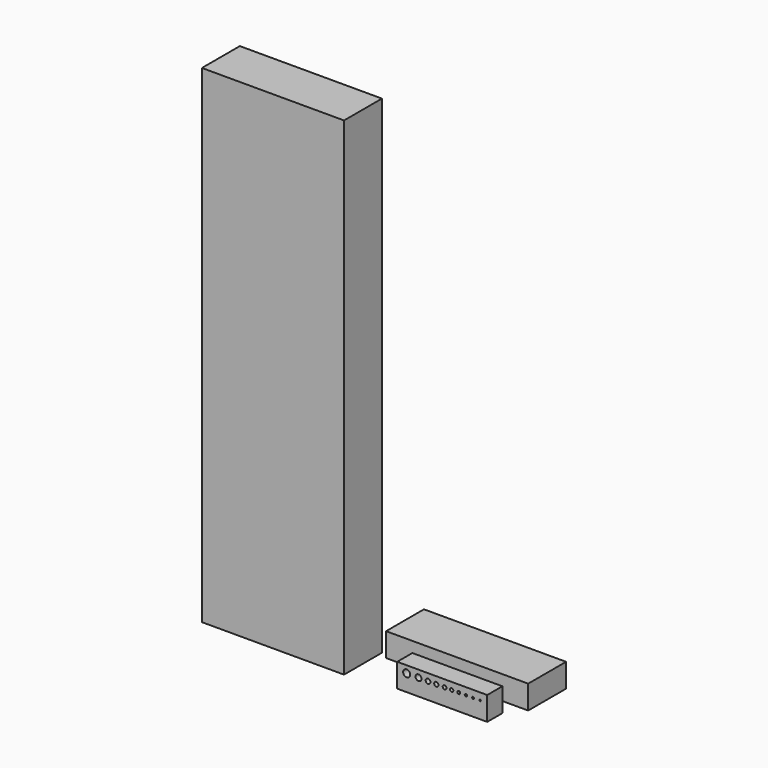
from build123d import *

# Parameters (mm, degrees)
F0_W     = 19
F0_H     = 5
F0_R     = 0.75
F0_R_2   = 0.625
F0_R_3   = 0.5
F0_R_4   = 0.45
F0_R_5   = 0.4
F0_R_6   = 0.35
F0_R_7   = 0.3
F0_R_8   = 0.25
F0_R_9   = 0.2
F0_R_10  = 0.15
F1_DEPTH = 4
F2_W     = 30
F2_H     = 10
F3_DEPTH = 5
F4_W     = 30
F4_H     = 10
F5_DEPTH = 103


with BuildPart() as f1:
    # F0 (on Front) → F1 (new body)
    with BuildSketch(Plane.XZ):
        with Locations((9.5, -2.5)):
            Rectangle(F0_W, F0_H)
        with Locations((2, -1.5)):
            Circle(F0_R, mode=Mode.SUBTRACT)
        with Locations((4.5, -1.5)):
            Circle(F0_R_2, mode=Mode.SUBTRACT)
        with Locations((6.5, -1.5)):
            Circle(F0_R_3, mode=Mode.SUBTRACT)
        with Locations((8.25, -1.5)):
            Circle(F0_R_4, mode=Mode.SUBTRACT)
        with Locations((10, -1.5)):
            Circle(F0_R_5, mode=Mode.SUBTRACT)
        with Locations((11.5, -1.5)):
            Circle(F0_R_6, mode=Mode.SUBTRACT)
        with Locations((13, -1.5)):
            Circle(F0_R_7, mode=Mode.SUBTRACT)
        with Locations((14.5, -1.5)):
            Circle(F0_R_8, mode=Mode.SUBTRACT)
        with Locations((16, -1.5)):
            Circle(F0_R_9, mode=Mode.SUBTRACT)
        with Locations((17.5, -1.5)):
            Circle(F0_R_10, mode=Mode.SUBTRACT)
    extrude(amount=F1_DEPTH)


with BuildPart() as f3:
    # F2 (on Top) → F3 (new body)
    with BuildSketch(Plane.XY):
        with Locations((6.738469, 8.385124)):
            Rectangle(F2_W, F2_H)
    extrude(amount=-F3_DEPTH)


with BuildPart() as f5:
    # F4 (on Top) → F5 (new body)
    with BuildSketch(Plane.XY):
        with Locations((-18.974167, -8.067785)):
            Rectangle(F4_W, F4_H)
    extrude(amount=F5_DEPTH)


solid = Compound([f1.part, f3.part, f5.part])
